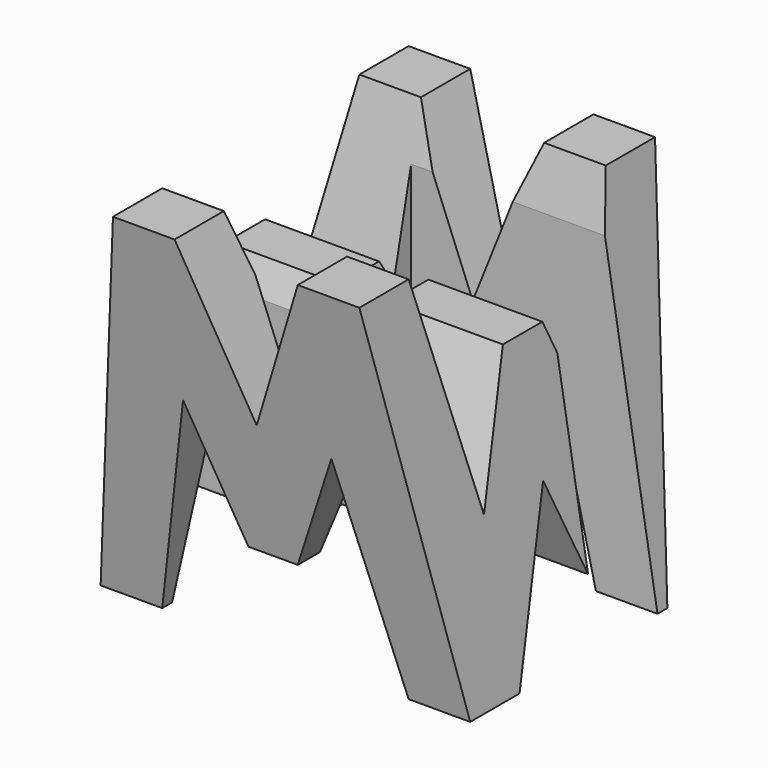
from build123d import *

# Parameters (mm, degrees)
F0_W      = 38.1
F0_H      = 38.1
F1_DEPTH  = 38.1
F6_DEPTH  = 38.1
F8_DEPTH  = 38.1
F9_W      = 25.4
F9_H      = 7.62
F10_DEPTH = 38.1


with BuildPart() as f1:
    # F0 (on Front) → F1 (new body)
    with BuildSketch(Plane.XZ):
        with Locations((19.05, 19.05)):
            Rectangle(F0_W, F0_H)
    extrude(amount=F1_DEPTH)

    # F5 (on offset) → F6 (cut)
    with BuildSketch(Plane.YZ.offset(38.1)):
        Polygon((-11.43, 15.875), (-6.35, 38.1), (-31.75, 38.1), (-26.67, 15.875), (-21.59, 28.575), (-16.51, 28.575), align=None)
        Polygon((-38.1, 0), (-31.75, 0), (-38.1, 38.1), align=None)
        Polygon((-25.4, 0), (-12.7, 0), (-19.05, 15.875), align=None)
        Polygon((-6.35, 0), (0, 0), (0, 38.1), align=None)
    extrude(amount=-F6_DEPTH, mode=Mode.SUBTRACT)

    # F7 (on offset) → F8 (cut)
    with BuildSketch(Plane.XZ.offset(38.1)):
        Polygon((0, 38.1), (0, 0), (6.35, 38.1), align=None)
        Polygon((25.4, 38.1), (12.7, 38.1), (19.05, 22.225), align=None)
        Polygon((31.75, 38.1), (38.1, 0), (38.1, 38.1), align=None)
        Polygon((11.43, 22.025449), (6.35, 0), (31.75, 0), (26.67, 21.632593), (21.59, 9.525), (16.51, 9.525), align=None)
    extrude(amount=-F8_DEPTH, mode=Mode.SUBTRACT)

    # F9 (on offset) → F10 (cut)
    with BuildSketch(Plane.XY.offset(38.1)):
        with Locations((25.4, -11.43)):
            Rectangle(F9_W, F9_H)
        with Locations((12.7, -26.67)):
            Rectangle(F9_W, F9_H)
    extrude(amount=-F10_DEPTH, mode=Mode.SUBTRACT)


solid = f1.part
